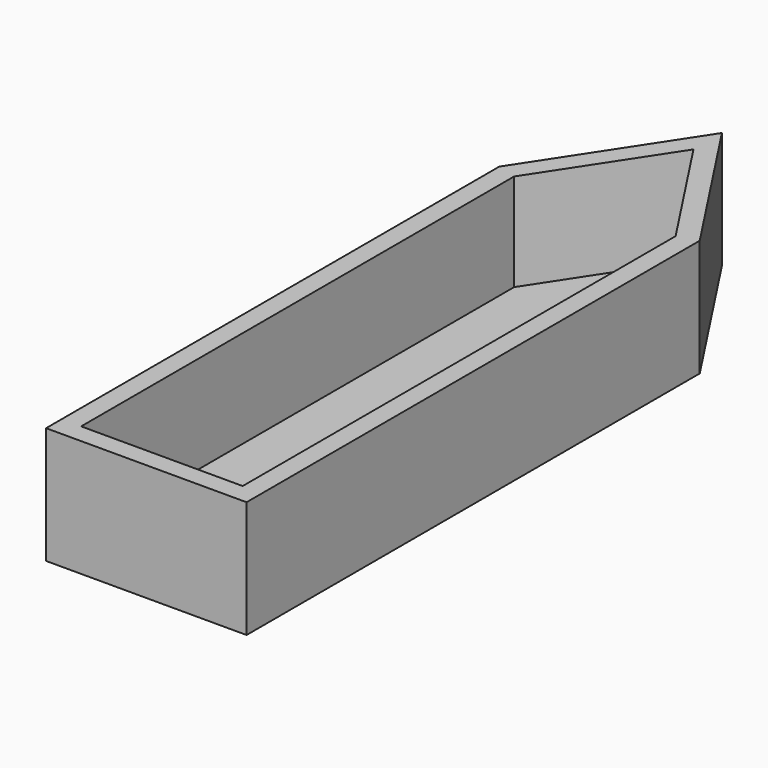
from build123d import *

# Parameters (mm, degrees)
F0_W     = 26.1355489492
F0_H     = 73.8396327943
F1_DEPTH = 15.24
F2_T     = -2.54


with BuildPart() as f1:
    # F0 (on Top) → F1 (new body)
    with BuildSketch(Plane.XY):
        with Locations((-13.0677744746, 15.5305759981)):
            Rectangle(F0_W, F0_H)
        Polygon((-13.0677744746, 72.3975971341), (-26.1355489492, 52.4503923953), (0, 52.4503923953), align=None)
    extrude(amount=F1_DEPTH)

    # F2
    f2_openings = [f1.faces().sort_by_distance(p)[0] for p in [
        (-13.067774, 20.715184, 15.24),
    ]]
    offset(amount=F2_T, openings=f2_openings)


solid = f1.part
